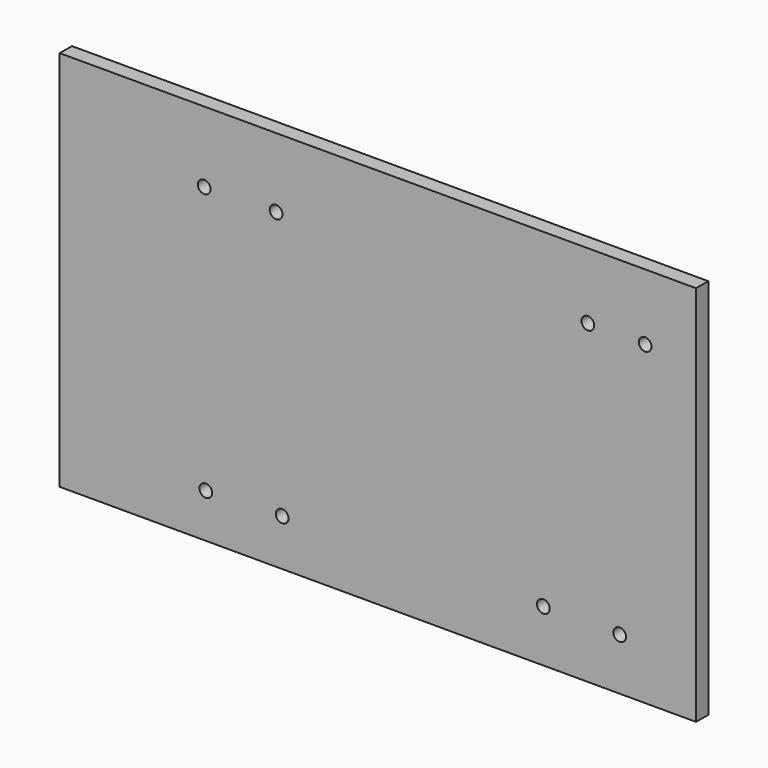
from build123d import *

# Parameters (mm, degrees)
F0_W     = 250
F0_H     = 150
F0_R     = 2.5
F1_DEPTH = 6


with BuildPart() as f1:
    # F0 (on Front) → F1 (new body)
    with BuildSketch(Plane.XZ):
        with Locations((-19.135419, 1.22297)):
            Rectangle(F0_W, F0_H)
        with Locations((-86.748167, -56.426454)):
            Circle(F0_R, mode=Mode.SUBTRACT)
        with Locations((-56.748167, -55.504199)):
            Circle(F0_R, mode=Mode.SUBTRACT)
        with Locations((45.864581, -53.350102)):
            Circle(F0_R, mode=Mode.SUBTRACT)
        with Locations((75.864581, -53.350102)):
            Circle(F0_R, mode=Mode.SUBTRACT)
        with Locations((-87.378472, 48.400778)):
            Circle(F0_R, mode=Mode.SUBTRACT)
        with Locations((-59.127729, 48.90286)):
            Circle(F0_R, mode=Mode.SUBTRACT)
        with Locations((63.364581, 50.275464)):
            Circle(F0_R, mode=Mode.SUBTRACT)
        with Locations((85.864581, 50.275464)):
            Circle(F0_R, mode=Mode.SUBTRACT)
    extrude(amount=F1_DEPTH)


solid = f1.part
